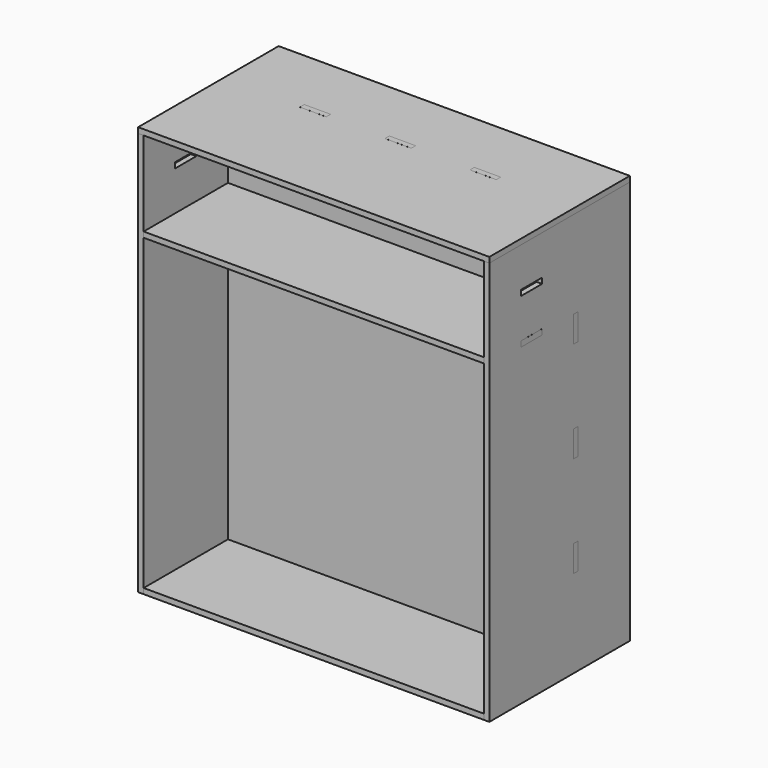
from build123d import *

# Parameters (mm, degrees)
F0_W      = 984.25
F0_H      = 508
F0_W_2    = 76.2
F0_H_2    = 16.002
F1_DEPTH  = 15.875
F2_W      = 508
F2_H      = 1152.525
F2_W_2    = 16.002
F2_H_2    = 76.327
F2_W_3    = 76.327
F2_H_3    = 16.002
F2_H_4    = 15.875
F3_DEPTH  = 15.875
F9_W      = 1000.125
F9_H      = 508
F9_W_2    = 76.2
F9_H_2    = 16.002
F9_W_3    = 15.875
F10_DEPTH = 15.875
F11_W     = 76.2
F11_H     = 16.002
F11_W_2   = 15.875
F11_H_2   = 76.327
F12_DEPTH = 15.875
F13_W     = 15.875
F13_H     = 76.327
F14_DEPTH = 15.875


with BuildPart() as f1:
    # F0 (on Top) → F1 (new body)
    with BuildSketch(Plane.XY):
        with Locations((-388.6847227216, 214.9014615417)):
            Rectangle(F0_W, F0_H)
        with Locations((-634.7472227216, 273.7024615417)):
            Rectangle(F0_W_2, F0_H_2, mode=Mode.SUBTRACT)
        with Locations((-388.6847227216, 273.7024615417)):
            Rectangle(F0_W_2, F0_H_2, mode=Mode.SUBTRACT)
        with Locations((-142.6222227216, 273.7024615417)):
            Rectangle(F0_W_2, F0_H_2, mode=Mode.SUBTRACT)
    extrude(amount=F1_DEPTH)


with BuildPart() as f3:
    # F2 (on face) → F3 (new body)
    with BuildSketch(Plane(origin=(-880.8097227216, 0, 0), x_dir=(0, -1, 0), z_dir=(-1, 0, 0))):
        with Locations((-214.9014615417, 592.1375)):
            Rectangle(F2_W, F2_H)
        with Locations((-273.7024615417, 292.1)):
            Rectangle(F2_W_2, F2_H_2, mode=Mode.SUBTRACT)
        with Locations((-273.7024615417, 584.2)):
            Rectangle(F2_W_2, F2_H_2, mode=Mode.SUBTRACT)
        with Locations((-273.7024615417, 876.3)):
            Rectangle(F2_W_2, F2_H_2, mode=Mode.SUBTRACT)
        with Locations((-113.3014615417, 915.797)):
            Rectangle(F2_W_3, F2_H_3, mode=Mode.SUBTRACT)
        with Locations((-113.3014615417, 1046.099)):
            Rectangle(F2_W_3, F2_H_3, mode=Mode.SUBTRACT)
        with Locations((-214.9014615417, 7.9375)):
            Rectangle(F2_W, F2_H_4)
    extrude(amount=F3_DEPTH)


with BuildPart() as f8_1:
    # F8: instance of F3
    add(f3.part.mirror(Plane(origin=(-388.6847227216, -39.0985384583, 15.875), x_dir=(0, 1, 0), z_dir=(1, 0, 0))))


with BuildPart() as f10:
    # F9 (on face) → F10 (new body)
    with BuildSketch(Plane.XY.offset(1168.4)):
        with Locations((-380.7472227216, 214.9014615417)):
            Rectangle(F9_W, F9_H)
        with Locations((-634.7472227216, 273.7024615417)):
            Rectangle(F9_W_2, F9_H_2, mode=Mode.SUBTRACT)
        with Locations((-388.6847227216, 273.7024615417)):
            Rectangle(F9_W_2, F9_H_2, mode=Mode.SUBTRACT)
        with Locations((-142.6222227216, 273.7024615417)):
            Rectangle(F9_W_2, F9_H_2, mode=Mode.SUBTRACT)
        with Locations((-888.7472227216, 214.9014615417)):
            Rectangle(F9_W_3, F9_H)
    extrude(amount=F10_DEPTH)


with BuildPart() as f12:
    # F11 (on face) → F12 (new body)
    with BuildSketch(Plane.XZ.offset(-281.7034615417)):
        Polygon((-180.7222227216, 1168.4), (-350.5847227216, 1168.4), (-350.5847227216, 1184.275), (-426.7847227216, 1184.275), (-426.7847227216, 1168.4), (-596.6472227216, 1168.4), (-596.6472227216, 1184.275), (-672.8472227216, 1184.275), (-672.8472227216, 1168.4), (-880.8097227216, 1168.4), (-880.8097227216, 914.4635), (-896.6847227216, 914.4635), (-896.6847227216, 838.1365), (-880.8097227216, 838.1365), (-880.8097227216, 622.3635), (-896.6847227216, 622.3635), (-896.6847227216, 546.0365), (-880.8097227216, 546.0365), (-880.8097227216, 330.2635), (-896.6847227216, 330.2635), (-896.6847227216, 253.9365), (-880.8097227216, 253.9365), (-880.8097227216, 15.875), (-672.8472227216, 15.875), (-672.8472227216, 0), (-596.6472227216, 0), (-596.6472227216, 15.875), (-426.7847227216, 15.875), (-426.7847227216, 0), (-350.5847227216, 0), (-350.5847227216, 15.875), (-180.7222227216, 15.875), (-180.7222227216, 0), (-104.5222227216, 0), (-104.5222227216, 15.875), (103.4402772784, 15.875), (103.4402772784, 253.9365), (119.3152772784, 253.9365), (119.3152772784, 330.2635), (103.4402772784, 330.2635), (103.4402772784, 546.0365), (103.4402772784, 622.3635), (103.4402772784, 838.1365), (119.3152772784, 838.1365), (119.3152772784, 914.4635), (103.4402772784, 914.4635), (103.4402772784, 1168.4), (-104.5222227216, 1168.4), (-104.5222227216, 1184.275), (-180.7222227216, 1184.275), align=None)
        with Locations((-634.7472227216, 915.797)):
            Rectangle(F11_W, F11_H, mode=Mode.SUBTRACT)
        with Locations((-634.7472227216, 1046.099)):
            Rectangle(F11_W, F11_H, mode=Mode.SUBTRACT)
        with Locations((-388.6847227216, 915.797)):
            Rectangle(F11_W, F11_H, mode=Mode.SUBTRACT)
        with Locations((-142.6222227216, 915.797)):
            Rectangle(F11_W, F11_H, mode=Mode.SUBTRACT)
        with Locations((-388.6847227216, 1046.099)):
            Rectangle(F11_W, F11_H, mode=Mode.SUBTRACT)
        with Locations((-142.6222227216, 1046.099)):
            Rectangle(F11_W, F11_H, mode=Mode.SUBTRACT)
        with Locations((111.3777772784, 584.2)):
            Rectangle(F11_W_2, F11_H_2)
    extrude(amount=F12_DEPTH)


with BuildPart() as f14:
    # F13 (on face) → F14 (new body)
    with BuildSketch(Plane.XY.offset(907.796)):
        Polygon((-596.6472227216, 265.8284615417), (-596.6472227216, 281.7034615417), (-672.8472227216, 281.7034615417), (-672.8472227216, 265.8284615417), (-880.8097227216, 265.8284615417), (-880.8097227216, 151.4649615417), (-880.8097227216, 75.1379615417), (-880.8097227216, -39.0985384583), (103.4402772784, -39.0985384583), (103.4402772784, 75.1379615417), (119.3152772784, 75.1379615417), (119.3152772784, 151.4649615417), (103.4402772784, 151.4649615417), (103.4402772784, 265.8284615417), (-104.5222227216, 265.8284615417), (-104.5222227216, 281.7034615417), (-180.7222227216, 281.7034615417), (-180.7222227216, 265.8284615417), (-350.5847227216, 265.8284615417), (-350.5847227216, 281.7034615417), (-426.7847227216, 281.7034615417), (-426.7847227216, 265.8284615417), align=None)
        with Locations((-888.7472227216, 113.3014615417)):
            Rectangle(F13_W, F13_H)
    extrude(amount=F14_DEPTH)


solid = Compound([f1.part, f3.part, f8_1.part, f10.part, f12.part, f14.part])
